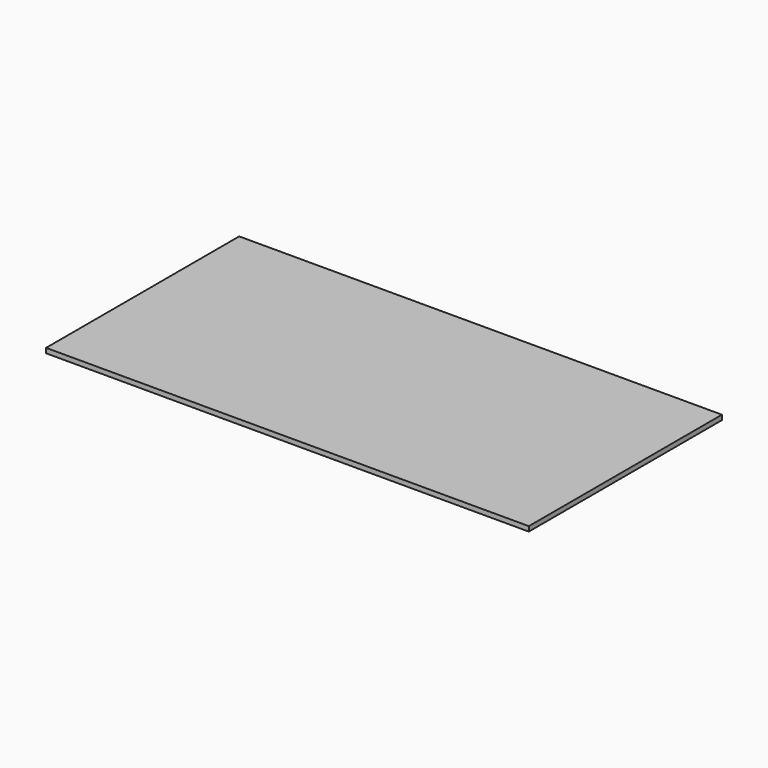
from build123d import *

# Parameters (mm, degrees)
F0_W     = 1000
F0_H     = 500
F1_DEPTH = 10
F2_R     = 3
F3_DEPTH = 5
F4_DEPTH = 5
F5_DEPTH = 5


with BuildPart() as f1:
    # F0 (on Top) → F1 (new body)
    with BuildSketch(Plane.XY):
        with Locations((500, 251.353577)):
            Rectangle(F0_W, F0_H)
    extrude(amount=F1_DEPTH)

    # F2 (on face) → F3 (cut)
    with BuildSketch(Plane(origin=(0, 0, 0), x_dir=(1, 0, 0), z_dir=(0, 0, -1))):
        with Locations((25, -26.353577)):
            Circle(F2_R)
    extrude(amount=-F3_DEPTH, mode=Mode.SUBTRACT)

    # F2 (on face) → F4 (cut)
    with BuildSketch(Plane(origin=(0, 0, 0), x_dir=(1, 0, 0), z_dir=(0, 0, -1))):
        with Locations((25, -476.353577)):
            Circle(F2_R)
    extrude(amount=-F4_DEPTH, mode=Mode.SUBTRACT)

    # F2 (on face) → F5 (cut)
    with BuildSketch(Plane(origin=(0, 0, 0), x_dir=(1, 0, 0), z_dir=(0, 0, -1))):
        with Locations((25, -26.353577)):
            Circle(F2_R)
        with Locations((25, -476.353577)):
            Circle(F2_R)
        with Locations((975, -26.353577)):
            Circle(F2_R)
        with Locations((975, -476.353577)):
            Circle(F2_R)
    extrude(amount=-F5_DEPTH, mode=Mode.SUBTRACT)


solid = f1.part
